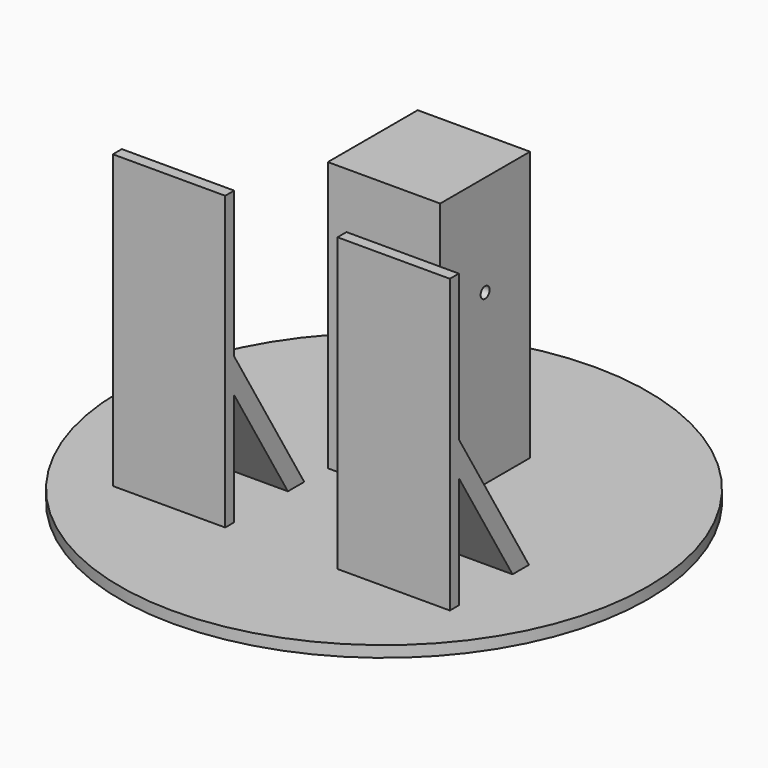
from build123d import *

# Parameters (mm, degrees)
F0_W      = 127
F0_H      = 127
F1_DEPTH  = 304.8
F2_W      = 101.6
F2_H      = 101.6
F3_DEPTH  = 292.1
F4_R      = 6.35
F5_DEPTH  = 127.001
F6_W      = 101.6
F6_H      = 101.6
F7_DEPTH  = 12.7
F8_W      = 127
F8_H      = 12.7
F9_DEPTH  = 330.2
F11_DEPTH = 127
F13_DEPTH = 127


with BuildPart() as f1:
    # F0 (on Top) → F1 (new body)
    with BuildSketch(Plane.XY):
        with Locations((3.740035, -2.651978)):
            Rectangle(F0_W, F0_H)
    extrude(amount=F1_DEPTH)

    # F2 (on face) → F3 (cut)
    with BuildSketch(Plane(origin=(0, 0, 0), x_dir=(1, 0, 0), z_dir=(0, 0, -1))):
        with Locations((3.740035, 2.651978)):
            Rectangle(F2_W, F2_H)
    extrude(amount=-F3_DEPTH, mode=Mode.SUBTRACT)

    # F4 (on face) → F5 (cut, through all)
    with BuildSketch(Plane(origin=(-59.759965, 0, 0), x_dir=(0, -1, 0), z_dir=(-1, 0, 0))):
        with Locations((2.651978, 190.5)):
            Circle(F4_R)
    extrude(amount=-F5_DEPTH, mode=Mode.SUBTRACT)

    # F6 (on face) → F7 (join)
    with BuildSketch(Plane(origin=(0, 0, 0), x_dir=(1, 0, 0), z_dir=(0, 0, -1))):
        with BuildLine():
            Line((3.740035, 66.151978), (302.190035, 66.151978))
            ThreePointArc((302.190035, 66.151978), (3.740035, 364.601978), (-294.709965, 66.151978))
            Line((-294.709965, 66.151978), (3.740035, 66.151978))
        make_face()
        with BuildLine():
            ThreePointArc((-294.709965, 66.151978), (3.740035, -232.298022), (302.190035, 66.151978))
            Line((302.190035, 66.151978), (3.740035, 66.151978))
            Line((3.740035, 66.151978), (-294.709965, 66.151978))
        make_face()
        with Locations((3.740035, 2.651978)):
            Rectangle(F6_W, F6_H, mode=Mode.SUBTRACT)
    extrude(amount=F7_DEPTH)

    # F8 (on face) → F9 (join)
    with BuildSketch(Plane.XY):
        with Locations((-123.259965, -204.855681)):
            Rectangle(F8_W, F8_H)
        with Locations((130.740035, -204.855681)):
            Rectangle(F8_W, F8_H)
    extrude(amount=F9_DEPTH)

    # F10 (on face) → F11 (join)
    with BuildSketch(Plane.YZ.offset(194.240035)):
        Polygon((-99.509686, 0), (-198.505681, 165.1), (-198.505681, 126.607434), (-122.590303, 0), align=None)
    extrude(amount=-F11_DEPTH)

    # F12 (on face) → F13 (join)
    with BuildSketch(Plane(origin=(-186.759965, 0, 0), x_dir=(0, -1, 0), z_dir=(-1, 0, 0))):
        Polygon((198.505681, 126.607495), (198.505681, 165.1), (99.509656, 0), (122.590244, 0), align=None)
    extrude(amount=-F13_DEPTH)


solid = f1.part
